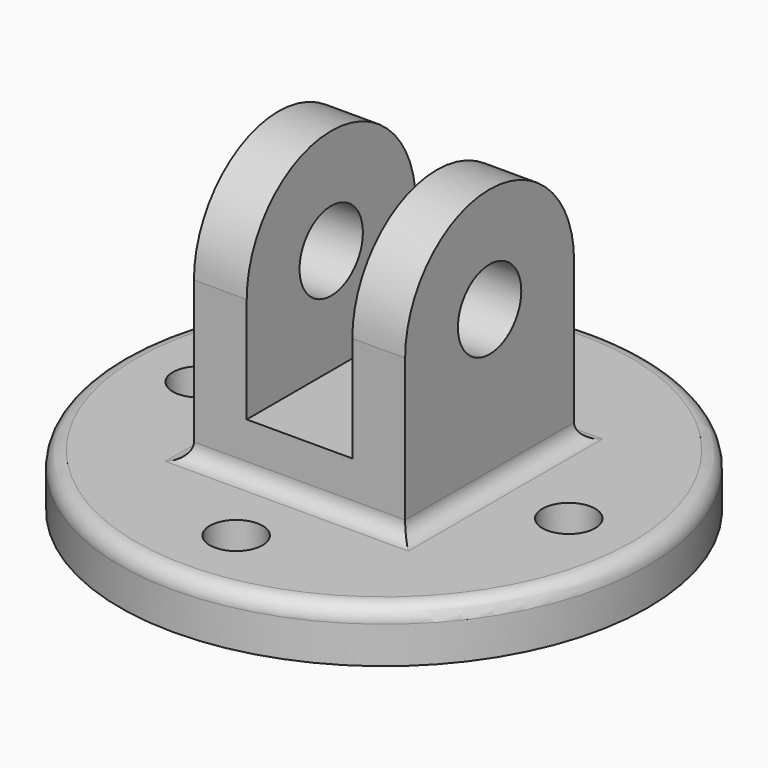
from build123d import *

# Parameters (mm, degrees)
F0_R      = 63.5
F1_DEPTH  = 6.35
F2_R      = 6.35
F3_DEPTH  = 12.701
F5_DEPTH  = 25.4
F7_DEPTH  = 12.7
F8_R      = 9.525
F9_DEPTH  = 12.7
F10_DEPTH = 88.901
F11_R     = 3.81


with BuildPart() as f1:
    # F0 (on Top) → F1 (new body, symmetric)
    with BuildSketch(Plane.XY):
        Circle(F0_R)
    extrude(amount=F1_DEPTH, both=True)

    # F2 (on face) → F3 (cut, through all)
    with BuildSketch(Plane.XY.offset(6.35)):
        with Locations((0, 44.45)):
            Circle(F2_R)
        with Locations((44.45, 0)):
            Circle(F2_R)
        with Locations((0, -44.45)):
            Circle(F2_R)
        with Locations((-44.45, 0)):
            Circle(F2_R)
    extrude(amount=-F3_DEPTH, mode=Mode.SUBTRACT)

    # F4 (on Front) → F5 (join, symmetric)
    with BuildSketch(Plane.XZ):
        Polygon((12.7, 19.05), (-12.7, 19.05), (-12.7, 44.45), (-25.4, 44.45), (-25.4, 6.35), (25.4, 6.35), (25.4, 44.45), (12.7, 44.45), align=None)
    extrude(amount=F5_DEPTH, both=True)

    # F6 (on face) → F7 (join)
    with BuildSketch(Plane.YZ.offset(25.4)):
        with BuildLine():
            Line((-25.4, 44.45), (25.4, 44.45))
            ThreePointArc((25.4, 44.45), (0, 69.85), (-25.4, 44.45))
        make_face()
    extrude(amount=-F7_DEPTH)

    # F8 (on face) → F9 (join)
    with BuildSketch(Plane(origin=(-25.4, 0, 0), x_dir=(0, -1, 0), z_dir=(-1, 0, 0))):
        with Locations((0, 44.45)):
            Circle(F8_R)
        with BuildLine():
            Line((9.525, 44.45), (25.4, 44.45))
            ThreePointArc((25.4, 44.45), (0, 69.85), (-25.4, 44.45))
            Line((-25.4, 44.45), (-9.525, 44.45))
            ThreePointArc((-9.525, 44.45), (0, 53.975), (9.525, 44.45))
        make_face()
    extrude(amount=-F9_DEPTH)

    # F8 (on face) → F10 (cut, through all)
    with BuildSketch(Plane(origin=(-25.4, 0, 0), x_dir=(0, -1, 0), z_dir=(-1, 0, 0))):
        with BuildLine():
            Line((-9.525, 44.45), (9.525, 44.45))
            ThreePointArc((9.525, 44.45), (0, 53.975), (-9.525, 44.45))
        make_face()
        with BuildLine():
            ThreePointArc((-9.525, 44.45), (0, 34.925), (9.525, 44.45))
            Line((9.525, 44.45), (-9.525, 44.45))
        make_face()
    extrude(amount=-F10_DEPTH, mode=Mode.SUBTRACT)

    # F11
    f11_edges = [f1.edges().sort_by_distance(p)[0] for p in [
        (0, -25.4, 6.35),
        (-25.4, 0, 6.35),
        (0, 25.4, 6.35),
        (25.4, 0, 6.35),
        (-63.5, 0, 6.35),
    ]]
    fillet(f11_edges, radius=F11_R)


solid = f1.part
